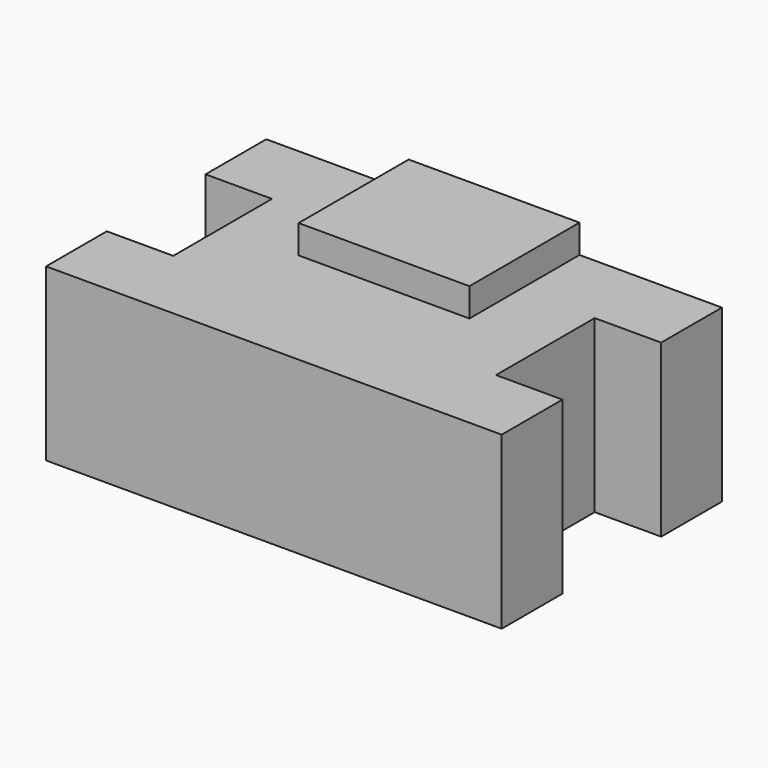
from build123d import *

# Parameters (mm, degrees)
F0_W     = 152.4
F0_H     = 92.075
F1_DEPTH = 57.15
F2_W     = 57.15
F2_H     = 46.0375
F3_DEPTH = 9.525
F4_W     = 22.225
F4_H     = 41.275
F5_DEPTH = 57.15


with BuildPart() as f1:
    # F0 (on Top) → F1 (new body)
    with BuildSketch(Plane.XY):
        Rectangle(F0_W, F0_H)
    extrude(amount=F1_DEPTH)

    # F2 (on face) → F3 (join)
    with BuildSketch(Plane.XY.offset(57.15)):
        with Locations((0, 23.01875)):
            Rectangle(F2_W, F2_H)
    extrude(amount=F3_DEPTH)

    # F4 (on face) → F5 (cut)
    with BuildSketch(Plane.XY.offset(57.15)):
        with Locations((-65.0875, 0)):
            Rectangle(F4_W, F4_H)
        with Locations((65.0875, 0)):
            Rectangle(F4_W, F4_H)
    extrude(amount=-F5_DEPTH, mode=Mode.SUBTRACT)


solid = f1.part
